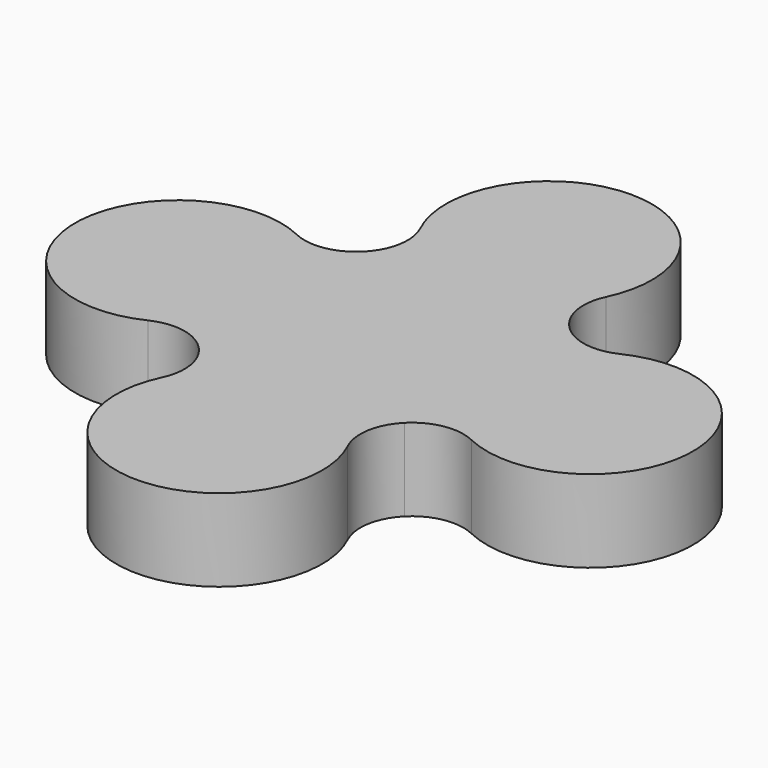
from build123d import *

# Parameters (mm, degrees)
F1_DEPTH = 80


with BuildPart() as f1:
    # F0 (on Top) → F1 (new body)
    with BuildSketch(Plane.XY):
        with BuildLine():
            ThreePointArc((-156.9035593729, -90.2368927062), (-115.4138189102, -53.3402096794), (-100, 0))
            ThreePointArc((-100, 0), (-115.4138189102, 53.3402096794), (-156.9035593729, 90.2368927062))
            ThreePointArc((-156.9035593729, 90.2368927062), (-253.3402095639, 84.5861811626), (-300, 2.731e-07))
            ThreePointArc((-300, 2.731e-07), (-253.3402097949, -84.586181017), (-156.9035593729, -90.2368927062))
        make_face()
        with BuildLine():
            ThreePointArc((-90.2368927062, 156.9035593729), (-53.3402097372, 115.4138189466), (-1.365e-07, 100))
            ThreePointArc((-1.365e-07, 100), (53.3402096217, 115.4138188738), (90.2368927062, 156.9035593729))
            ThreePointArc((90.2368927062, 156.9035593729), (97.5286862175, 177.905761731), (100, 200))
            ThreePointArc((100, 200), (70.7106783302, 270.7106779071), (5.983e-07, 300))
            ThreePointArc((5.983e-07, 300), (-84.5861809302, 253.3402099325), (-90.2368927062, 156.9035593729))
        make_face()
        with BuildLine():
            ThreePointArc((156.9035593729, 90.2368927062), (115.4138189102, 53.3402096794), (100, 0))
            ThreePointArc((100, 0), (115.4138189102, -53.3402096794), (156.9035593729, -90.2368927062))
            ThreePointArc((156.9035593729, -90.2368927062), (253.3402096794, -84.5861810898), (300, 0))
            ThreePointArc((300, 0), (253.3402096794, 84.5861810898), (156.9035593729, 90.2368927062))
        make_face()
        with BuildLine():
            ThreePointArc((90.2368927062, -156.9035593729), (53.3402096137, -115.4138188688), (-1.553e-07, -100))
            ThreePointArc((-1.553e-07, -100), (-53.3402097451, -115.4138189516), (-90.2368927062, -156.9035593729))
            ThreePointArc((-90.2368927062, -156.9035593729), (-84.5861811956, -253.3402095117), (-3.966e-07, -300))
            ThreePointArc((-3.966e-07, -300), (70.7106779784, -270.7106782589), (100, -200))
            ThreePointArc((100, -200), (97.5286862175, -177.905761731), (90.2368927062, -156.9035593729))
        make_face()
        with BuildLine():
            ThreePointArc((-90.2368927062, -156.9035593729), (-53.3402097451, -115.4138189516), (-1.553e-07, -100))
            Line((-1.553e-07, -100), (-100, -100))
            ThreePointArc((-100, -100), (-86.0754110767, -126.900240123), (-90.2368927062, -156.9035593729))
        make_face()
        with BuildLine():
            ThreePointArc((-156.9035593729, -90.2368927062), (-126.900240123, -86.0754110767), (-100, -100))
            Line((-100, -100), (-100, 0))
            ThreePointArc((-100, 0), (-115.4138189102, -53.3402096794), (-156.9035593729, -90.2368927062))
        make_face()
        with BuildLine():
            ThreePointArc((-156.9035593729, 90.2368927062), (-115.4138189102, 53.3402096794), (-100, 0))
            Line((-100, 0), (-100, 100))
            ThreePointArc((-100, 100), (-126.900240123, 86.0754110767), (-156.9035593729, 90.2368927062))
        make_face()
        with BuildLine():
            Line((-100, 100), (-1.365e-07, 100))
            ThreePointArc((-1.365e-07, 100), (-53.3402097372, 115.4138189466), (-90.2368927062, 156.9035593729))
            ThreePointArc((-90.2368927062, 156.9035593729), (-86.0754110767, 126.900240123), (-100, 100))
        make_face()
        with BuildLine():
            Line((-1.365e-07, 100), (100, 100))
            ThreePointArc((100, 100), (86.0754110767, 126.900240123), (90.2368927062, 156.9035593729))
            ThreePointArc((90.2368927062, 156.9035593729), (53.3402096217, 115.4138188738), (-1.365e-07, 100))
        make_face()
        with BuildLine():
            Line((100, 100), (100, 0))
            ThreePointArc((100, 0), (115.4138189102, 53.3402096794), (156.9035593729, 90.2368927062))
            ThreePointArc((156.9035593729, 90.2368927062), (126.900240123, 86.0754110767), (100, 100))
        make_face()
        with BuildLine():
            Line((100, 0), (100, -100))
            ThreePointArc((100, -100), (126.900240123, -86.0754110767), (156.9035593729, -90.2368927062))
            ThreePointArc((156.9035593729, -90.2368927062), (115.4138189102, -53.3402096794), (100, 0))
        make_face()
        Polygon((-1.553e-07, -100), (100, -100), (100, 0), (100, 100), (-1.365e-07, 100), (-100, 100), (-100, 0), (-100, -100), align=None)
        with BuildLine():
            ThreePointArc((90.2368927062, -156.9035593729), (86.0754110767, -126.900240123), (100, -100))
            Line((100, -100), (-1.553e-07, -100))
            ThreePointArc((-1.553e-07, -100), (53.3402096137, -115.4138188688), (90.2368927062, -156.9035593729))
        make_face()
    extrude(amount=F1_DEPTH)


solid = f1.part
